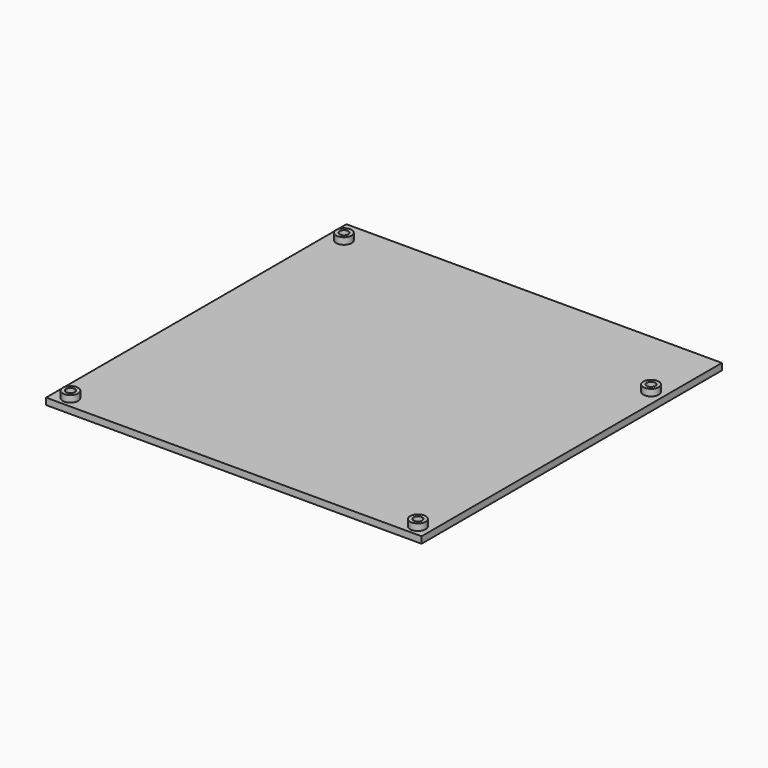
from build123d import *

# Parameters (mm, degrees)
F0_W     = 170.19
F0_H     = 170.18
F0_R     = 3.5
F1_DEPTH = 3
F0_R_2   = 1.98
F2_DEPTH = 6


with BuildPart() as f1:
    # F0 (on Top) → F1 (new body)
    with BuildSketch(Plane.XY):
        with Locations((-2.9422, -23.25511)):
            Rectangle(F0_W, F0_H)
        with Locations((-81.0472, -103.26511)):
            Circle(F0_R, mode=Mode.SUBTRACT)
        with Locations((76.4328, -103.26511)):
            Circle(F0_R, mode=Mode.SUBTRACT)
        with Locations((-81.0472, 51.67489)):
            Circle(F0_R, mode=Mode.SUBTRACT)
        with Locations((76.4328, 28.81489)):
            Circle(F0_R, mode=Mode.SUBTRACT)
    extrude(amount=F1_DEPTH)

    # F0 (on Top) → F2 (join)
    with BuildSketch(Plane.XY):
        with Locations((76.4328, -103.26511)):
            Circle(F0_R)
        with Locations((76.4328, -103.26511)):
            Circle(F0_R_2, mode=Mode.SUBTRACT)
        with Locations((-81.0472, -103.26511)):
            Circle(F0_R)
        with Locations((-81.0472, -103.26511)):
            Circle(F0_R_2, mode=Mode.SUBTRACT)
        with Locations((-81.0472, 51.67489)):
            Circle(F0_R)
        with Locations((-81.0472, 51.67489)):
            Circle(F0_R_2, mode=Mode.SUBTRACT)
        with Locations((76.4328, 28.81489)):
            Circle(F0_R)
        with Locations((76.4328, 28.81489)):
            Circle(F0_R_2, mode=Mode.SUBTRACT)
    extrude(amount=F2_DEPTH)


solid = f1.part
